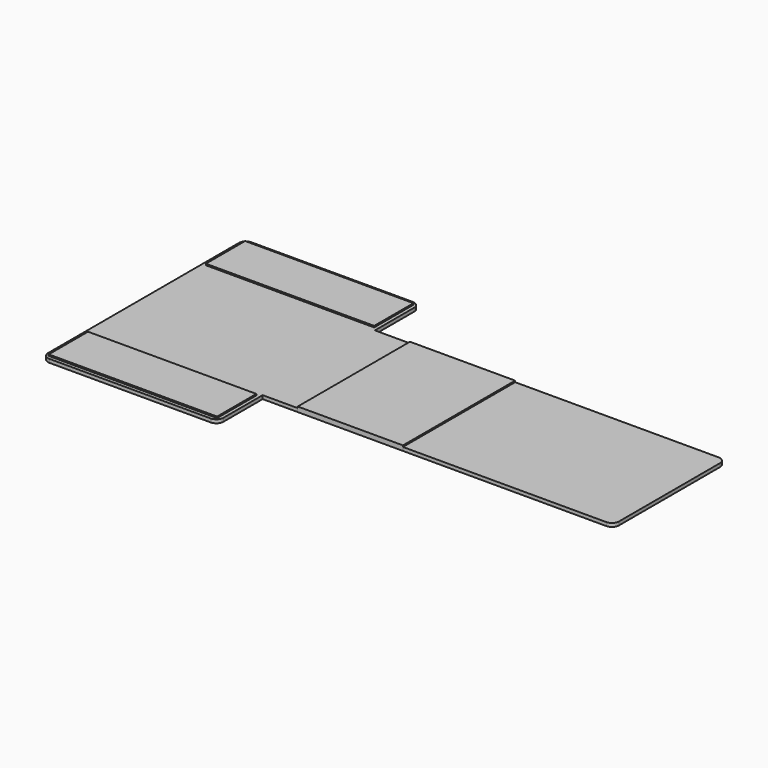
from build123d import *

# Parameters (mm, degrees)
F0_W     = 300
F0_H     = 200
F0_W_2   = 150
F0_W_3   = 250
F0_H_2   = 80
F0_W_4   = 240
F0_H_3   = 70
F1_DEPTH = 5
F2_DEPTH = 7
F3_R     = 10


with BuildPart() as f1:
    # F0 (on Top) → F1 (new body)
    with BuildSketch(Plane.XY):
        Polygon((-200, -18.1460690498), (-450, -18.1460690498), (-450, -218.1460690498), (-200, -218.1460690498), (-150, -218.1460690498), (-150, -18.1460690498), align=None)
        with Locations((150, -118.1460690498)):
            Rectangle(F0_W, F0_H)
        with Locations((-75, -118.1460690498)):
            Rectangle(F0_W_2, F0_H)
        with Locations((-325, 21.8539309502)):
            Rectangle(F0_W_3, F0_H_2)
        with Locations((-325, 21.8539309502)):
            Rectangle(F0_W_4, F0_H_3, mode=Mode.SUBTRACT)
        with Locations((-325, -258.1460690498)):
            Rectangle(F0_W_3, F0_H_2)
        with Locations((-325, -258.1460690498)):
            Rectangle(F0_W_4, F0_H_3, mode=Mode.SUBTRACT)
        with Locations((-325, 21.8539309502)):
            Rectangle(F0_W_4, F0_H_3)
        with Locations((-325, -258.1460690498)):
            Rectangle(F0_W_4, F0_H_3)
    extrude(amount=F1_DEPTH)

    # F3
    f3_edges = [f1.edges().sort_by_distance(p)[0] for p in [
        (300, -218.146069, 2.5),
        (300, -18.146069, 2.5),
        (-200, -298.146069, 2.5),
        (-450, -298.146069, 2.5),
        (-450, 61.853931, 2.5),
        (-200, 61.853931, 2.5),
    ]]
    fillet(f3_edges, radius=F3_R)


with BuildPart() as f2:
    # F0 (on Top) → F2 (new body)
    with BuildSketch(Plane.XY):
        with Locations((-325, -258.1460690498)):
            Rectangle(F0_W_4, F0_H_3)
    extrude(amount=F2_DEPTH)


with BuildPart() as f2b:
    # F0 (on Top) → F2, piece 2 (new body)
    with BuildSketch(Plane.XY):
        with Locations((-325, 21.8539309502)):
            Rectangle(F0_W_4, F0_H_3)
    extrude(amount=F2_DEPTH)


with BuildPart() as f2c:
    # F0 (on Top) → F2, piece 3 (new body)
    with BuildSketch(Plane.XY):
        with Locations((-75, -118.1460690498)):
            Rectangle(F0_W_2, F0_H)
    extrude(amount=F2_DEPTH)


solid = Compound([f1.part, f2.part, f2b.part, f2c.part])
